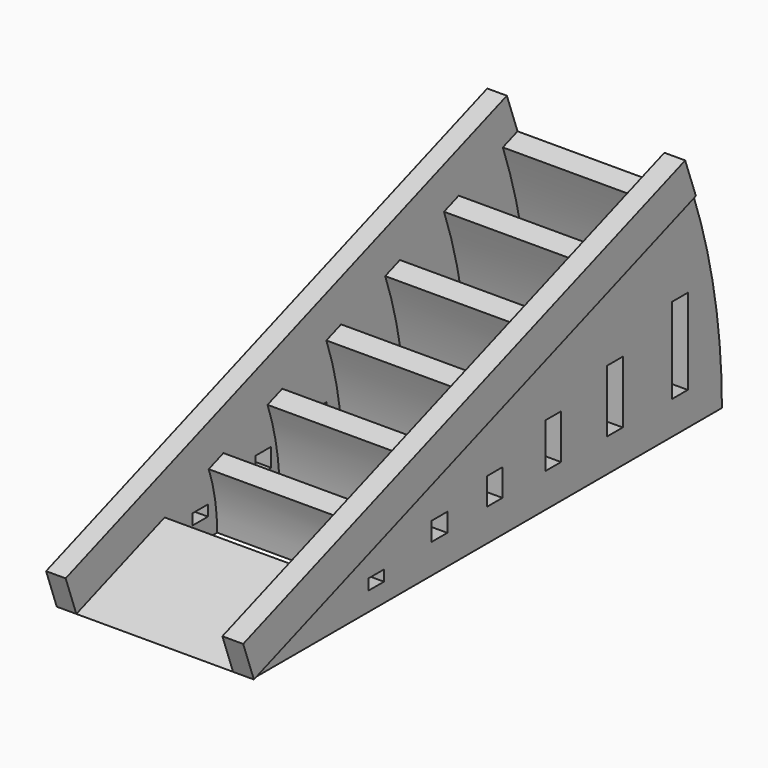
from build123d import *

# Parameters (mm, degrees)
F0_W     = 25.4
F0_H     = 76.2
F0_W_2   = 20.32
F0_H_2   = 7.62
F1_ANGLE = 20
F2_W     = 2.54
F2_H     = 76.2
F2_W_2   = 2.7023823932
F2_H_2   = 76.3387009501
F3_DEPTH = 5.08
F4_W     = 2.54
F4_H     = 11.1115600293
F4_H_2   = 8.0921141291
F4_H_3   = 5.7973351781
F4_H_4   = 3.5076183132
F4_H_5   = 2.4190474503
F4_H_6   = 1.4033722508
F5_DEPTH = 25.401


with BuildPart() as f1:
    # F0 (on Top) → F1 (revolve)
    with BuildSketch(Plane.XY):
        with Locations((0.1395599202, 38.1)):
            Rectangle(F0_W, F0_H)
        with Locations((0.1395599202, 19.05)):
            Rectangle(F0_W_2, F0_H_2, mode=Mode.SUBTRACT)
        with Locations((0.1395599202, 29.21)):
            Rectangle(F0_W_2, F0_H_2, mode=Mode.SUBTRACT)
        with Locations((0.1395599202, 39.37)):
            Rectangle(F0_W_2, F0_H_2, mode=Mode.SUBTRACT)
        with Locations((0.1395599202, 49.53)):
            Rectangle(F0_W_2, F0_H_2, mode=Mode.SUBTRACT)
        with Locations((0.1395599202, 59.69)):
            Rectangle(F0_W_2, F0_H_2, mode=Mode.SUBTRACT)
        with Locations((0.1395599202, 69.85)):
            Rectangle(F0_W_2, F0_H_2, mode=Mode.SUBTRACT)
    revolve(axis=Axis((0.1395599202, 0, 0), (1, 0, 0)), revolution_arc=F1_ANGLE)

    # F2 (on face) → F3 (join)
    with BuildSketch(Plane(origin=(0, 0, 0), x_dir=(1, 0, 0), z_dir=(0, -0.3420201433, 0.9396926208))):
        with Locations((-11.2904400798, 38.1)):
            Rectangle(F2_W, F2_H)
        with Locations((11.6798062809, 38.1693504751)):
            Rectangle(F2_W_2, F2_H_2)
    extrude(amount=F3_DEPTH)

    # F4 (on face) → F5 (cut, through all)
    with BuildSketch(Plane.YZ.offset(12.8395599202)):
        with Locations((69.3939362815, 9.8744578206)):
            Rectangle(F4_W, F4_H)
        with Locations((58.834955257, 8.3647348704)):
            Rectangle(F4_W, F4_H_2)
        with Locations((48.8164393489, 7.3381234978)):
            Rectangle(F4_W, F4_H_3)
        with Locations((39.3121916656, 5.9616579595)):
            Rectangle(F4_W, F4_H_4)
        with Locations((30.3617200801, 5.0545152959)):
            Rectangle(F4_W, F4_H_5)
        with Locations((20.0811068022, 3.1433054453)):
            Rectangle(F4_W, F4_H_6)
    extrude(amount=-F5_DEPTH, mode=Mode.SUBTRACT)


solid = f1.part
